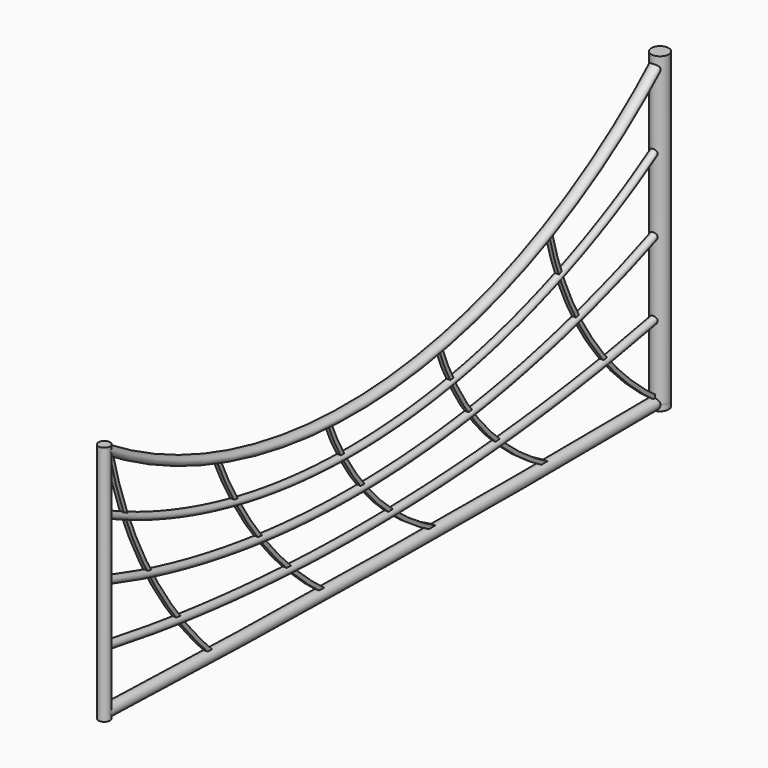
from build123d import *

# Parameters (mm, degrees)
F1_R      = 25.4
F1_R_2    = 38.1
F7_R      = 57.15
F8_DEPTH  = 2019.3
F9_DEPTH  = 38.1
F10_R     = 38.1
F11_DEPTH = 1600.2
F12_DEPTH = 11.4046
F14_DEPTH = 12.7


with BuildPart() as f2:
    # F2: sweep along a path in F0
    with BuildLine(Plane.YZ) as f2_path:
        ThreePointArc((-4572, 431.8), (-2283.0019621022, 247.6912713553), (0, 495.3))
    # F1 (on Front) → F2 (sweep)
    with BuildSketch(Plane.XZ):
        with Locations((0, 495.3)):
            Circle(F1_R)
    sweep(path=f2_path.line)


with BuildPart() as f3:
    # F3: sweep along a path in F0
    with BuildLine(Plane.YZ) as f3_path:
        ThreePointArc((-4572, 50.8), (-2286.2821873886, 0.0031350284), (0, 0))
    # F1 (on Front) → F3 (sweep)
    with BuildSketch(Plane.XZ):
        Circle(F1_R_2)
    sweep(path=f3_path.line)


with BuildPart() as f4:
    # F4: sweep along a path in F0
    with BuildLine(Plane.YZ) as f4_path:
        ThreePointArc((-4572, 812.8), (-2270.2186921869, 495.894941949), (0, 990.6))
    # F1 (on Front) → F4 (sweep)
    with BuildSketch(Plane.XZ):
        with Locations((0, 990.6)):
            Circle(F1_R)
    sweep(path=f4_path.line)


with BuildPart() as f5:
    # F5: sweep along a path in F0
    with BuildLine(Plane.YZ) as f5_path:
        ThreePointArc((-4572, 1193.8), (-2248.0099274701, 745.2227777926), (0, 1485.9))
    # F1 (on Front) → F5 (sweep)
    with BuildSketch(Plane.XZ):
        with Locations((0, 1485.9)):
            Circle(F1_R)
    sweep(path=f5_path.line)


with BuildPart() as f6:
    # F6: sweep along a path in F0
    with BuildLine(Plane.YZ) as f6_path:
        ThreePointArc((-4572, 1574.8), (-2216.5001485855, 996.1266715869), (0, 1981.2))
    # F1 (on Front) → F6 (sweep)
    with BuildSketch(Plane.XZ):
        with Locations((0, 1981.2)):
            Circle(F1_R_2)
    sweep(path=f6_path.line)


with BuildPart() as f8:
    # F7 (on Top) → F8 (new body)
    with BuildSketch(Plane.XY):
        Circle(F7_R)
    extrude(amount=F8_DEPTH)


with BuildPart() as f9:
    # F9 (new): a face of the model
    f9_faces = [f8.part.faces().sort_by_distance(p)[0] for p in [
        (0, 0, 0),
    ]]
    extrude(f9_faces, amount=F9_DEPTH)


with BuildPart() as f11:
    # F10 (on Top) → F11 (new body)
    with BuildSketch(Plane.XY):
        with Locations((0, -4572)):
            Circle(F10_R)
    extrude(amount=F11_DEPTH)

    # F12 (cut): a face of the model
    f12_faces = [f11.faces().sort_by_distance(p)[0] for p in [
        (0, -4572, 0),
    ]]
    extrude(f12_faces, amount=-F12_DEPTH, mode=Mode.SUBTRACT)


with BuildPart() as f14:
    # F13 (on Right) → F14 (new body, symmetric)
    with BuildSketch(Plane.YZ):
        with BuildLine():
            ThreePointArc((-914.4, 1330.2235603333), (-579.7841265616, 580.8470530407), (0, 0))
            Line((0, 0), (0, 15.4513795639))
            ThreePointArc((0, 15.4513795639), (-571.8005277002, 591.6598209666), (-902.0570977983, 1333.2140059923))
            Line((-902.0570977983, 1333.2140059923), (-914.4, 1330.2235603333))
        make_face()
        with BuildLine():
            Line((-22.2303738368, 0), (0, 0))
            ThreePointArc((0, 0), (-579.7841265616, 580.8470530407), (-914.4, 1330.2235603333))
            Line((-914.4, 1330.2235603333), (-926.7429022017, 1327.2331146742))
            ThreePointArc((-926.7429022017, 1327.2331146742), (-595.4170758646, 581.202175958), (-22.2303738368, 1e-10))
        make_face()
    extrude(amount=F14_DEPTH, both=True)


with BuildPart() as f14b:
    # F13 (on Right) → F14, piece 2 (new body, symmetric)
    with BuildSketch(Plane.YZ):
        with BuildLine():
            ThreePointArc((-1828.8, 1057.1048259735), (-1471.1104325393, 442.4754816568), (-914.4, 0))
            Line((-914.4, 0), (-908.473840893, 11.2325704199))
            ThreePointArc((-908.473840893, 11.2325704199), (-1461.5052819423, 450.7839762262), (-1816.8310767884, 1061.3515749836))
            Line((-1816.8310767884, 1061.3515749836), (-1828.8, 1057.1048259735))
        make_face()
        with BuildLine():
            Line((-941.302996265, 0), (-914.4, 0))
            ThreePointArc((-914.4, 0), (-1471.1104325393, 442.4754816568), (-1828.8, 1057.1048259735))
            Line((-1828.8, 1057.1048259735), (-1840.7689232116, 1052.8580769635))
            ThreePointArc((-1840.7689232116, 1052.8580769635), (-1488.471376496, 443.1891038989), (-941.302996265, 0))
        make_face()
    extrude(amount=F14_DEPTH, both=True)


with BuildPart() as f14c:
    # F13 (on Right) → F14, piece 3 (new body, symmetric)
    with BuildSketch(Plane.YZ):
        with BuildLine():
            ThreePointArc((-2743.2, 994.4218993187), (-2379.0226543107, 411.6739002843), (-1828.8, 0))
            Line((-1828.8, 0), (-1823.1915319462, 11.3945200026))
            ThreePointArc((-1823.1915319462, 11.3945200026), (-2369.6741378763, 420.2701343711), (-2731.376047701, 999.056999321))
            Line((-2731.376047701, 999.056999321), (-2743.2, 994.4218993187))
        make_face()
        with BuildLine():
            Line((-1857.1683608873, 0), (-1828.8, 0))
            ThreePointArc((-1828.8, 0), (-2379.0226543107, 411.6739002843), (-2743.2, 994.4218993187))
            Line((-2743.2, 994.4218993187), (-2755.023952299, 989.7867993164))
            ThreePointArc((-2755.023952299, 989.7867993164), (-2396.9536028202, 412.4747755942), (-1857.1683608873, 0))
        make_face()
    extrude(amount=F14_DEPTH, both=True)


with BuildPart() as f14d:
    # F13 (on Right) → F14, piece 4 (new body, symmetric)
    with BuildSketch(Plane.YZ):
        with BuildLine():
            ThreePointArc((-3657.6, 1155.6067466736), (-3277.8301816461, 516.5349891732), (-2743.2, 0))
            Line((-2743.2, 0), (-2735.6669395067, 10.2246271132))
            ThreePointArc((-2735.6669395067, 10.2246271132), (-3267.8708902002, 524.4155039975), (-3645.9172568676, 1160.5870592042))
            Line((-3645.9172568676, 1160.5870592042), (-3657.6, 1155.6067466736))
        make_face()
        with BuildLine():
            Line((-2764.5225870691, 0), (-2743.2, 0))
            ThreePointArc((-2743.2, 0), (-3277.8301816461, 516.5349891732), (-3657.6, 1155.6067466736))
            Line((-3657.6, 1155.6067466736), (-3669.2827431324, 1150.6264341429))
            ThreePointArc((-3669.2827431324, 1150.6264341429), (-3293.1052633935, 515.3936179054), (-2764.5225870691, 0))
        make_face()
    extrude(amount=F14_DEPTH, both=True)


with BuildPart() as f14e:
    # F13 (on Right) → F14, piece 5 (new body, symmetric)
    with BuildSketch(Plane.YZ):
        with BuildLine():
            ThreePointArc((-4532.0320227507, 1534.8256937617), (-4205.6019186327, 704.2950965271), (-3657.6, 0))
            Line((-3657.6, 0), (-3648.7938931423, 9.151091848))
            ThreePointArc((-3648.7938931423, 9.151091848), (-4194.5671526877, 710.5819033907), (-4519.6697041217, 1537.734830767))
            Line((-4519.6697041217, 1537.734830767), (-4532.0320227507, 1534.8256937617))
        make_face()
        with BuildLine():
            ThreePointArc((-4544.3943413796, 1531.9165567564), (-4219.890120198, 703.7327700148), (-3675.8758165318, 0))
            Line((-3675.8758165318, 0), (-3657.6, 0))
            ThreePointArc((-3657.6, 0), (-4205.6019186327, 704.2950965271), (-4532.0320227507, 1534.8256937617))
            Line((-4532.0320227507, 1534.8256937617), (-4544.3943413796, 1531.9165567564))
        make_face()
    extrude(amount=F14_DEPTH, both=True)


solid = Compound([f2.part, f3.part, f4.part, f5.part, f6.part, f8.part, f9.part, f11.part, f14.part, f14b.part, f14c.part, f14d.part, f14e.part])
